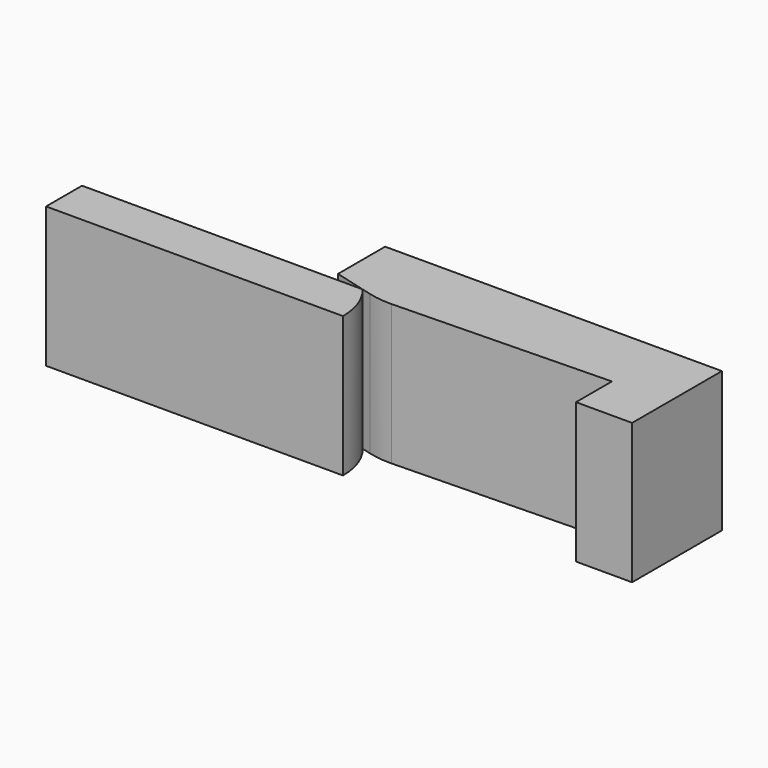
from build123d import *

# Parameters (mm, degrees)
F1_DEPTH = 5
F2_R     = 3
F4_DEPTH = 5


with BuildPart() as f1:
    # F0 (on Top) → F1 (new body)
    with BuildSketch(Plane.XY):
        Polygon((12, 4), (0, 4), (0, 1.9), (1.866025, 1.4), (10, 1.6), (10, 0), (12, 0), align=None)
    extrude(amount=-F1_DEPTH)

    # F2
    f2_edges = [f1.edges().sort_by_distance(p)[0] for p in [
        (1.866025, 1.4, -2.5),
    ]]
    fillet(f2_edges, radius=F2_R)


with BuildPart() as f4:
    # F3 (on Top) → F4 (new body)
    with BuildSketch(Plane.XY):
        with BuildLine():
            ThreePointArc((1.698678, 0), (1.549459, 0.850781), (1.119615, 1.6))
            Line((1.119615, 1.6), (-8.880385, 1.6))
            Line((-8.880385, 1.6), (-8.880385, 0))
            Line((-8.880385, 0), (1.698678, 0))
        make_face()
    extrude(amount=-F4_DEPTH)


solid = Compound([f1.part, f4.part])
